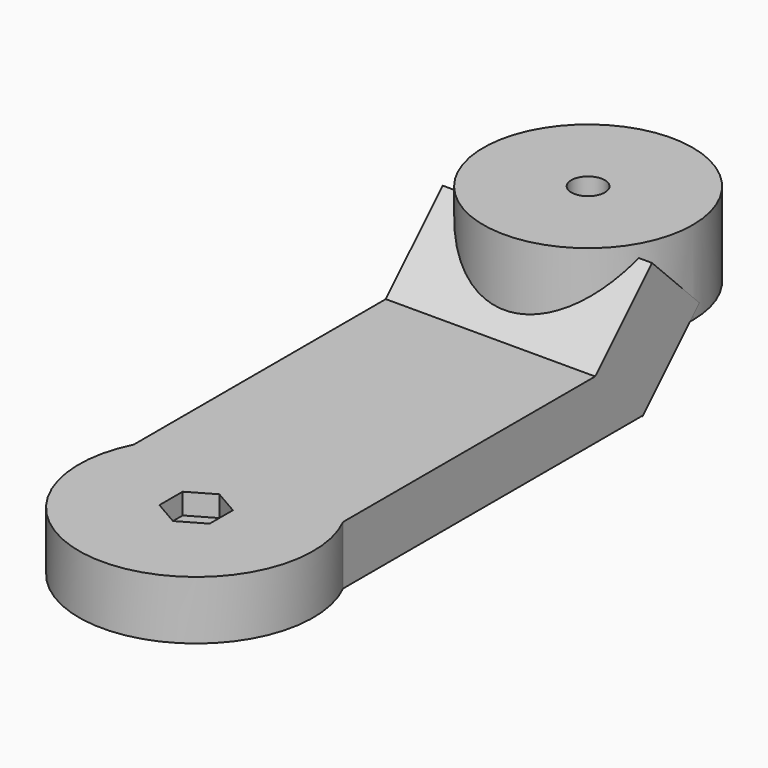
from build123d import *

# Parameters (mm, degrees)
F1_DEPTH  = 7
F2_R      = 12.5
F3_DEPTH  = 10
F4_R      = 2
F5_DEPTH  = 7
F9_W      = 25
F9_H      = 12
F10_DEPTH = 10
F11_R     = 2
F12_DEPTH = 17
F13_R     = 14
F14_DEPTH = 7
F15_R     = 1.65
F16_DEPTH = 7
F18_DEPTH = 2.5


with BuildPart() as f1:
    # F0 (on Top) → F1 (new body)
    with BuildSketch(Plane.XY):
        Polygon((-12.5, -27.5), (12.5, -27.5), (12.5, 27.5), (6.25, 27.5), (-6.25, 27.5), (-12.5, 27.5), align=None)
        with BuildLine():
            Line((-6.25, 27.5), (6.25, 27.5))
            Line((6.25, 27.5), (6.25, 37.5))
            Line((6.25, 37.5), (4.3301270189, 37.5))
            ThreePointArc((4.3301270189, 37.5), (4.8296291314, 36.2940952255), (5, 35))
            ThreePointArc((5, 35), (-1.2940952255, 30.1703708686), (-4.3301270189, 37.5))
            Line((-4.3301270189, 37.5), (-6.25, 37.5))
            Line((-6.25, 37.5), (-6.25, 27.5))
        make_face()
        with BuildLine():
            ThreePointArc((5, 35), (4.8296291314, 36.2940952255), (4.3301270189, 37.5))
            Line((4.3301270189, 37.5), (-4.3301270189, 37.5))
            ThreePointArc((-4.3301270189, 37.5), (-1.2940952255, 30.1703708686), (5, 35))
        make_face()
        with BuildLine():
            Line((-4.3301270189, 37.5), (4.3301270189, 37.5))
            ThreePointArc((4.3301270189, 37.5), (0, 40), (-4.3301270189, 37.5))
        make_face()
    extrude(amount=F1_DEPTH)

    # F2 (on face) → F3 (join)
    with BuildSketch(Plane.XY.offset(7)):
        with Locations((0, 35)):
            Circle(F2_R)
    extrude(amount=F3_DEPTH)

    # F4 (on face) → F5 (cut, through all)
    with BuildSketch(Plane.XY.offset(7)):
        with Locations((0, -23.5)):
            Circle(F4_R)
    extrude(amount=-F5_DEPTH, mode=Mode.SUBTRACT)

    # F9 (on offset) → F10 (join)
    with BuildSketch(Plane(origin=(0, 6.7144660941, -6.7144660941), x_dir=(1, 0, 0), z_dir=(0, -0.7071067812, 0.7071067812))):
        with Locations((0, 25.3951839509)):
            Rectangle(F9_W, F9_H)
    extrude(amount=-F10_DEPTH)

    # F11 (on face) → F12 (cut, through all)
    with BuildSketch(Plane.XY.offset(17)):
        with Locations((0, 35)):
            Circle(F11_R)
    extrude(amount=-F12_DEPTH, mode=Mode.SUBTRACT)

    # F13 (on face) → F14 (join, through all)
    with BuildSketch(Plane(origin=(0, 0, 0), x_dir=(1, 0, 0), z_dir=(0, 0, -1))):
        with Locations((0, 23.5)):
            Circle(F13_R)
    extrude(amount=-F14_DEPTH)

    # F15 (on face) → F16 (cut, through all)
    with BuildSketch(Plane.XY.offset(7)):
        with Locations((0, -23.5)):
            Circle(F15_R)
    extrude(amount=-F16_DEPTH, mode=Mode.SUBTRACT)

    # F17 (on face) → F18 (cut)
    with BuildSketch(Plane.XY.offset(7)):
        Polygon((0, -26.9641016151), (3, -25.2320508076), (3, -21.7679491924), (0, -20.0358983849), (-3, -21.7679491924), (-3, -25.2320508076), align=None)
    extrude(amount=-F18_DEPTH, mode=Mode.SUBTRACT)


solid = f1.part
